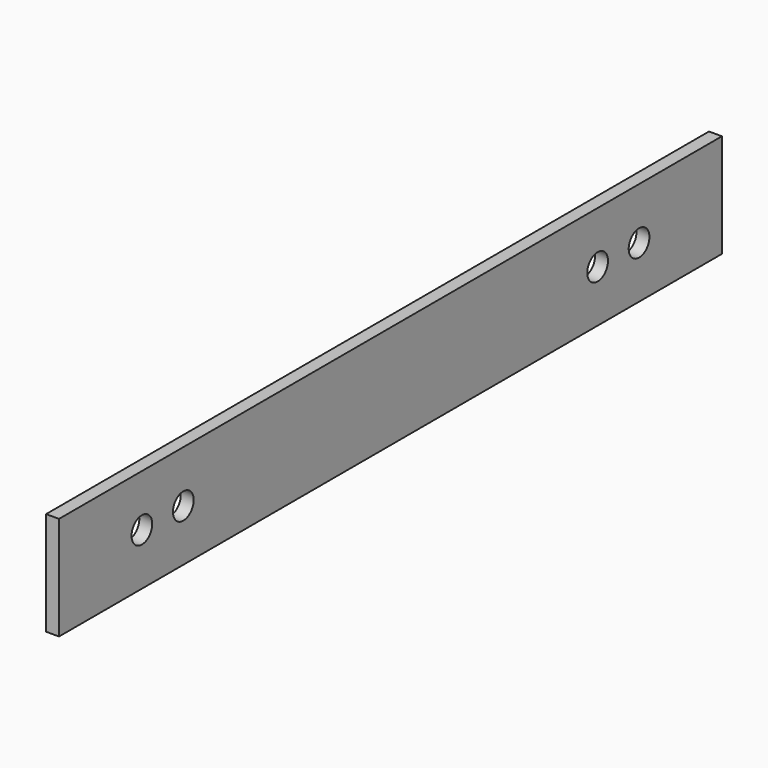
from build123d import *

# Parameters (mm, degrees)
F0_W     = 203.2
F0_H     = 25.4
F0_R     = 3.175
F1_DEPTH = 3.175


with BuildPart() as f1:
    # F0 (on Right) → F1 (new body)
    with BuildSketch(Plane.YZ):
        with Locations((6.446304, -17.787355)):
            Rectangle(F0_W, F0_H)
        with Locations((-69.753696, -17.787355)):
            Circle(F0_R, mode=Mode.SUBTRACT)
        with Locations((-57.053696, -17.787355)):
            Circle(F0_R, mode=Mode.SUBTRACT)
        with Locations((69.946304, -17.787355)):
            Circle(F0_R, mode=Mode.SUBTRACT)
        with Locations((82.646304, -17.787355)):
            Circle(F0_R, mode=Mode.SUBTRACT)
    extrude(amount=F1_DEPTH)


solid = f1.part
